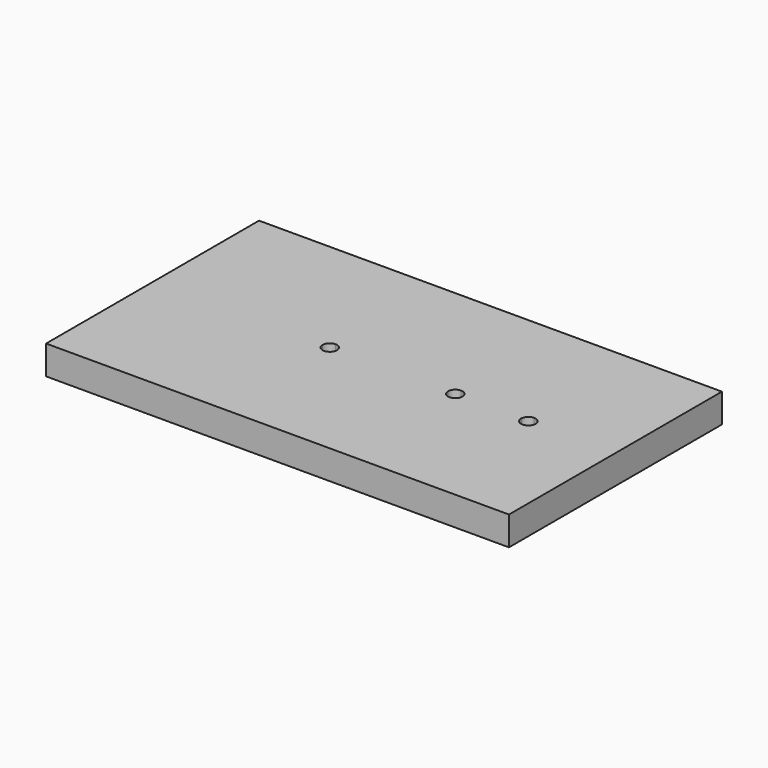
from build123d import *

# Parameters (mm, degrees)
F1_DEPTH = 6.35


with BuildPart() as f1:
    # F0 (on Top) → F1 (new body)
    with BuildSketch(Plane.XY):
        with BuildLine():
            ThreePointArc((11.2032132386, 5.3260231485), (17.2136208787, 2.8364307886), (19.7032132386, -3.1739768515))
            Line((19.7032132386, -3.1739768515), (20.1573244902, -3.1739768515))
            ThreePointArc((20.1573244902, -3.1739768515), (22.2840920141, 1.8213627827), (27.3068132386, 3.8826317272))
            Line((27.3068132386, 3.8826317272), (27.3068132386, 26.0360231485))
            Line((27.3068132386, 26.0360231485), (11.2032132386, 26.0360231485))
            Line((11.2032132386, 26.0360231485), (11.2032132386, 5.3260231485))
        make_face()
        with BuildLine():
            ThreePointArc((27.3068132386, 3.8826317272), (22.2840920141, 1.8213627827), (20.1573244902, -3.1739768515))
            Line((20.1573244902, -3.1739768515), (25.7220685891, -3.1739768515))
            ThreePointArc((25.7220685891, -3.1739768515), (26.217836972, -2.1123548841), (27.3068132386, -1.6799682728))
            Line((27.3068132386, -1.6799682728), (27.3068132386, 3.8826317272))
        make_face()
        with BuildLine():
            ThreePointArc((-35.3967867614, -3.1739768515), (-16.3467867614, -22.2239768515), (2.7032132386, -3.1739768515))
            Line((2.7032132386, -3.1739768515), (-14.7592867614, -3.1739768515))
            ThreePointArc((-14.7592867614, -3.1739768515), (-16.3467867614, -4.7614768515), (-17.9342867614, -3.1739768515))
            Line((-17.9342867614, -3.1739768515), (-35.3967867614, -3.1739768515))
        make_face()
        with BuildLine():
            ThreePointArc((19.7032132386, -3.1739768515), (11.2032132386, -11.6739768515), (2.7032132386, -3.1739768515))
            ThreePointArc((2.7032132386, -3.1739768515), (-16.3467867614, -22.2239768515), (-35.3967867614, -3.1739768515))
            Line((-35.3967867614, -3.1739768515), (-55.2431867614, -3.1739768515))
            Line((-55.2431867614, -3.1739768515), (-55.2431867614, -32.3839768515))
            Line((-55.2431867614, -32.3839768515), (46.3568132386, -32.3839768515))
            Line((46.3568132386, -32.3839768515), (46.3568132386, -3.1739768515))
            Line((46.3568132386, -3.1739768515), (34.4563019871, -3.1739768515))
            ThreePointArc((34.4563019871, -3.1739768515), (34.4567604241, -3.220721563), (34.4569132386, -3.2674682728))
            ThreePointArc((34.4569132386, -3.2674682728), (27.2600665289, -10.4174154582), (20.1573244902, -3.1739768515))
            Line((20.1573244902, -3.1739768515), (19.7032132386, -3.1739768515))
        make_face()
        with BuildLine():
            Line((25.7220685891, -3.1739768515), (20.1573244902, -3.1739768515))
            ThreePointArc((20.1573244902, -3.1739768515), (27.2600665289, -10.4174154582), (34.4569132386, -3.2674682728))
            ThreePointArc((34.4569132386, -3.2674682728), (34.4567604241, -3.220721563), (34.4563019871, -3.1739768515))
            Line((34.4563019871, -3.1739768515), (28.8915578882, -3.1739768515))
            ThreePointArc((28.8915578882, -3.1739768515), (28.8936242515, -3.2207022653), (28.8943132386, -3.2674682728))
            ThreePointArc((28.8943132386, -3.2674682728), (27.2600472312, -4.8542792856), (25.7220685891, -3.1739768515))
        make_face()
        with BuildLine():
            Line((12.7907132386, -3.1739768515), (19.7032132386, -3.1739768515))
            ThreePointArc((19.7032132386, -3.1739768515), (17.2136208787, 2.8364307886), (11.2032132386, 5.3260231485))
            Line((11.2032132386, 5.3260231485), (11.2032132386, -1.5864768515))
            ThreePointArc((11.2032132386, -1.5864768515), (12.3257452538, -2.0514448364), (12.7907132386, -3.1739768515))
        make_face()
        with BuildLine():
            ThreePointArc((34.4563019871, -3.1739768515), (32.3295344632, 1.8213627827), (27.3068132386, 3.8826317272))
            Line((27.3068132386, 3.8826317272), (27.3068132386, -1.6799682728))
            ThreePointArc((27.3068132386, -1.6799682728), (28.3957895053, -2.1123548841), (28.8915578882, -3.1739768515))
            Line((28.8915578882, -3.1739768515), (34.4563019871, -3.1739768515))
        make_face()
        with BuildLine():
            Line((-16.3467867614, -1.5864768515), (-16.3467867614, 15.8760231485))
            ThreePointArc((-16.3467867614, 15.8760231485), (-29.817170943, 10.2964073301), (-35.3967867614, -3.1739768515))
            Line((-35.3967867614, -3.1739768515), (-17.9342867614, -3.1739768515))
            ThreePointArc((-17.9342867614, -3.1739768515), (-17.4693187765, -2.0514448364), (-16.3467867614, -1.5864768515))
        make_face()
        with BuildLine():
            ThreePointArc((11.2032132386, 5.3260231485), (5.1928055986, 2.8364307886), (2.7032132386, -3.1739768515))
            Line((2.7032132386, -3.1739768515), (9.6157132386, -3.1739768515))
            ThreePointArc((9.6157132386, -3.1739768515), (10.0806812235, -2.0514448364), (11.2032132386, -1.5864768515))
            Line((11.2032132386, -1.5864768515), (11.2032132386, 5.3260231485))
        make_face()
        with BuildLine():
            Line((9.6157132386, -3.1739768515), (2.7032132386, -3.1739768515))
            ThreePointArc((2.7032132386, -3.1739768515), (11.2032132386, -11.6739768515), (19.7032132386, -3.1739768515))
            Line((19.7032132386, -3.1739768515), (12.7907132386, -3.1739768515))
            ThreePointArc((12.7907132386, -3.1739768515), (11.2032132386, -4.7614768515), (9.6157132386, -3.1739768515))
        make_face()
        with BuildLine():
            ThreePointArc((-35.3967867614, -3.1739768515), (-29.817170943, 10.2964073301), (-16.3467867614, 15.8760231485))
            Line((-16.3467867614, 15.8760231485), (-16.3467867614, 26.0360231485))
            Line((-16.3467867614, 26.0360231485), (-55.2431867614, 26.0360231485))
            Line((-55.2431867614, 26.0360231485), (-55.2431867614, -3.1739768515))
            Line((-55.2431867614, -3.1739768515), (-35.3967867614, -3.1739768515))
        make_face()
        with BuildLine():
            Line((27.3068132386, 26.0360231485), (27.3068132386, 3.8826317272))
            ThreePointArc((27.3068132386, 3.8826317272), (32.3295344632, 1.8213627827), (34.4563019871, -3.1739768515))
            Line((34.4563019871, -3.1739768515), (46.3568132386, -3.1739768515))
            Line((46.3568132386, -3.1739768515), (46.3568132386, 26.0360231485))
            Line((46.3568132386, 26.0360231485), (27.3068132386, 26.0360231485))
        make_face()
        with BuildLine():
            ThreePointArc((-16.3467867614, 15.8760231485), (-2.8764025798, 10.2964073301), (2.7032132386, -3.1739768515))
            ThreePointArc((2.7032132386, -3.1739768515), (5.1928055986, 2.8364307886), (11.2032132386, 5.3260231485))
            Line((11.2032132386, 5.3260231485), (11.2032132386, 26.0360231485))
            Line((11.2032132386, 26.0360231485), (-16.3467867614, 26.0360231485))
            Line((-16.3467867614, 26.0360231485), (-16.3467867614, 15.8760231485))
        make_face()
        with BuildLine():
            Line((-14.7592867614, -3.1739768515), (2.7032132386, -3.1739768515))
            ThreePointArc((2.7032132386, -3.1739768515), (-2.8764025798, 10.2964073301), (-16.3467867614, 15.8760231485))
            Line((-16.3467867614, 15.8760231485), (-16.3467867614, -1.5864768515))
            ThreePointArc((-16.3467867614, -1.5864768515), (-15.2242547462, -2.0514448364), (-14.7592867614, -3.1739768515))
        make_face()
    extrude(amount=F1_DEPTH)


solid = f1.part
